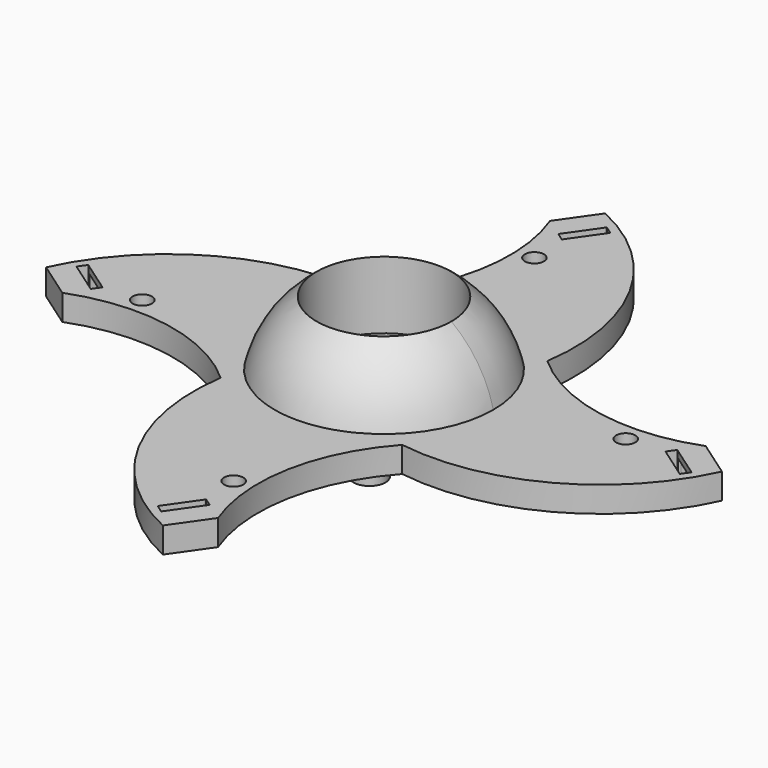
from build123d import *

# Parameters (mm, degrees)
F1_ANGLE  = 180
F2_R      = 11
F3_DEPTH  = 3.5
F4_R      = 10.5
F5_DEPTH  = 17
F7_DEPTH  = 4
F8_R      = 18.641205443
F8_R_2    = 11
F9_DEPTH  = 4
F10_R     = 10
F11_DEPTH = 2
F13_DEPTH = 3
F15_DEPTH = 25
F17_DEPTH = 3
F18_R     = 2.5
F19_DEPTH = 2.5
F20_R     = 1.5
F21_DEPTH = 25


with BuildPart() as f1:
    # F0 (on Top) → F1 (revolve)
    with BuildSketch(Plane.XY):
        with BuildLine():
            ThreePointArc((0, -17.5), (12.3743686708, -12.3743686708), (17.5, 0))
            ThreePointArc((17.5, 0), (12.3743686708, 12.3743686708), (0, 17.5))
            Line((0, 17.5), (0, -17.5))
        make_face()
    revolve(axis=Axis((0, 0, 0), (0, -1, 0)), revolution_arc=F1_ANGLE)

    # F2 (on face) → F3 (cut)
    with BuildSketch(Plane(origin=(0, 0, 0), x_dir=(1, 0, 0), z_dir=(0, 0, -1))):
        Circle(F2_R)
    extrude(amount=-F3_DEPTH, mode=Mode.SUBTRACT)

    # F4 (on face) → F5 (cut)
    with BuildSketch(Plane(origin=(0, 0, 3.5), x_dir=(1, 0, 0), z_dir=(0, 0, -1))):
        Circle(F4_R)
    extrude(amount=-F5_DEPTH, mode=Mode.SUBTRACT)



with BuildPart() as f7:
    # F6 (on face) → F7 (new body)
    with BuildSketch(Plane(origin=(0, 0, 0), x_dir=(1, 0, 0), z_dir=(0, 0, -1))):
        with BuildLine():
            ThreePointArc((-12.3743686708, -12.3743686708), (-17.5, 0), (-12.3743686708, 12.3743686708))
            Line((-12.3743686708, 12.3743686708), (-14.1421356237, 14.1421356237))
            ThreePointArc((-14.1421356237, 14.1421356237), (-27.8923182516, 7.317919876), (-43.1821195756, 8.6815247843))
            Line((-43.1821195756, 8.6815247843), (-48.919726111, 4.6715533074))
            ThreePointArc((-48.919726111, 4.6715533074), (-34.6649635656, -10.5286316429), (-14.1421356237, -14.1421356237))
            Line((-14.1421356237, -14.1421356237), (-12.3743686708, -12.3743686708))
        make_face()
        with BuildLine():
            Line((-14.1421356237, 14.1421356237), (-12.3743686708, 12.3743686708))
            ThreePointArc((-12.3743686708, 12.3743686708), (0, 17.5), (12.3743686708, 12.3743686708))
            Line((12.3743686708, 12.3743686708), (14.1421356237, 14.1421356237))
            ThreePointArc((14.1421356237, 14.1421356237), (7.317919876, 27.8923182516), (8.6815247843, 43.1821195756))
            Line((8.6815247843, 43.1821195756), (4.6715533074, 48.919726111))
            ThreePointArc((4.6715533074, 48.919726111), (-10.5286316429, 34.6649635656), (-14.1421356237, 14.1421356237))
        make_face()
        with BuildLine():
            Line((14.1421356237, 14.1421356237), (12.3743686708, 12.3743686708))
            ThreePointArc((12.3743686708, 12.3743686708), (17.5, 0), (12.3743686708, -12.3743686708))
            Line((12.3743686708, -12.3743686708), (14.1421356237, -14.1421356237))
            ThreePointArc((14.1421356237, -14.1421356237), (27.8923182516, -7.317919876), (43.1821195756, -8.6815247843))
            Line((43.1821195756, -8.6815247843), (48.919726111, -4.6715533074))
            ThreePointArc((48.919726111, -4.6715533074), (34.6649635656, 10.5286316429), (14.1421356237, 14.1421356237))
        make_face()
        with BuildLine():
            ThreePointArc((12.3743686708, -12.3743686708), (0, -17.5), (-12.3743686708, -12.3743686708))
            Line((-12.3743686708, -12.3743686708), (-14.1421356237, -14.1421356237))
            ThreePointArc((-14.1421356237, -14.1421356237), (-7.317919876, -27.8923182516), (-8.6815247843, -43.1821195756))
            Line((-8.6815247843, -43.1821195756), (-4.6715533074, -48.919726111))
            ThreePointArc((-4.6715533074, -48.919726111), (10.5286316429, -34.6649635656), (14.1421356237, -14.1421356237))
            Line((14.1421356237, -14.1421356237), (12.3743686708, -12.3743686708))
        make_face()
    extrude(amount=-F7_DEPTH)


with BuildPart() as f1_1:
    add(f1.part)

    add(f7.part)  # F9 merges F7
    # F8 (on face) → F9 (join, through all)
    with BuildSketch(Plane(origin=(0, 0, 0), x_dir=(1, 0, 0), z_dir=(0, 0, -1))):
        Circle(F8_R)
        Circle(F8_R_2, mode=Mode.SUBTRACT)
    extrude(amount=-F9_DEPTH)

    # F10 (on face) → F11 (cut)
    with BuildSketch(Plane(origin=(0, 0, 0), x_dir=(1, 0, 0), z_dir=(0, 0, -1))):
        with Locations((-3.7499996834, 22.8846166283)):
            Circle(F10_R)
        with Locations((-22.8846166283, -3.7499996834)):
            Circle(F10_R)
        with Locations((3.7499996834, -22.8846166283)):
            Circle(F10_R)
        with Locations((22.8846166283, 3.7499996834)):
            Circle(F10_R)
    extrude(amount=-F11_DEPTH, mode=Mode.SUBTRACT)

    # F12 (on face) → F13 (cut)
    with BuildSketch(Plane(origin=(0, 0, 0), x_dir=(1, 0, 0), z_dir=(0, 0, -1))):
        Polygon((5.9440483259, 41.5129213729), (8.2390909401, 43.1169099636), (4.9165431449, 47.8709268072), (2.6215005308, 46.2669382165), (2.2936373002, 46.0377969892), (5.6161850953, 41.2837801456), align=None)
        Polygon((-46.0377969892, 2.2936373002), (-41.2837801456, 5.6161850953), (-41.5129213729, 5.9440483259), (-43.1169099636, 8.2390909401), (-47.8709268072, 4.9165431449), (-46.2669382165, 2.6215005308), align=None)
        Polygon((-2.2936373002, -46.0377969892), (-5.6161850953, -41.2837801456), (-5.9440483259, -41.5129213729), (-8.2390909401, -43.1169099636), (-4.9165431449, -47.8709268072), (-2.6215005308, -46.2669382165), align=None)
        Polygon((46.0377969892, -2.2936373002), (41.2837801456, -5.6161850953), (41.5129213729, -5.9440483259), (43.1169099636, -8.2390909401), (47.8709268072, -4.9165431449), (46.2669382165, -2.6215005308), align=None)
    extrude(amount=-F13_DEPTH, mode=Mode.SUBTRACT)

    # F14 (on face) → F15 (cut)
    with BuildSketch(Plane(origin=(0, 0, 0), x_dir=(1, 0, 0), z_dir=(0, 0, -1))):
        Polygon((5.7307557089, 41.1198485303), (2.2936373002, 46.0377969892), (2.20770934, 46.1607457007), (0.9782222253, 45.3014660985), (4.415340634, 40.3835176396), (4.5012685942, 40.2605689282), align=None)
        Polygon((-46.1607457007, 2.20770934), (-45.3014660985, 0.9782222253), (-40.3835176396, 4.415340634), (-40.2605689282, 4.5012685942), (-41.1198485303, 5.7307557089), (-46.0377969892, 2.2936373002), align=None)
        Polygon((-2.20770934, -46.1607457007), (-0.9782222253, -45.3014660985), (-4.415340634, -40.3835176396), (-4.5012685942, -40.2605689282), (-5.7307557089, -41.1198485303), (-2.2936373002, -46.0377969892), align=None)
        Polygon((46.1607457007, -2.20770934), (45.3014660985, -0.9782222253), (40.3835176396, -4.415340634), (40.2605689282, -4.5012685942), (41.1198485303, -5.7307557089), (46.0377969892, -2.2936373002), align=None)
    extrude(amount=-F15_DEPTH, mode=Mode.SUBTRACT)

    # F16 (on face) → F17 (cut)
    with BuildSketch(Plane(origin=(0, 0, 0), x_dir=(1, 0, 0), z_dir=(0, 0, -1))):
        with BuildLine():
            Line((4.1809628018, 40.7188735865), (1.342054472, 44.7808822767))
            ThreePointArc((1.342054472, 44.7808822767), (-5.3985401919, 39.5803016206), (-8.5350042844, 31.6654896468))
            ThreePointArc((-8.5350042844, 31.6654896468), (-4.3224338027, 32.8682191434), (0, 32.1548648652))
            ThreePointArc((0, 32.1548648652), (1.0537931887, 36.9429820748), (4.1809628018, 40.7188735865))
        make_face()
        with BuildLine():
            Line((-40.7188735865, 4.1809628018), (-44.7808822767, 1.342054472))
            ThreePointArc((-44.7808822767, 1.342054472), (-39.5803016206, -5.3985401919), (-31.6654896468, -8.5350042844))
            ThreePointArc((-31.6654896468, -8.5350042844), (-32.8682191434, -4.3224338027), (-32.1548648653, 0))
            ThreePointArc((-32.1548648653, 0), (-36.9429820748, 1.0537931887), (-40.7188735865, 4.1809628018))
        make_face()
        with BuildLine():
            Line((-4.1809628018, -40.7188735865), (-1.342054472, -44.7808822767))
            ThreePointArc((-1.342054472, -44.7808822767), (5.3985401919, -39.5803016206), (8.5350042844, -31.6654896468))
            ThreePointArc((8.5350042844, -31.6654896468), (4.3224338027, -32.8682191434), (0, -32.1548648653))
            ThreePointArc((0, -32.1548648653), (-1.0537931887, -36.9429820748), (-4.1809628018, -40.7188735865))
        make_face()
        with BuildLine():
            Line((40.7188735865, -4.1809628018), (44.7808822767, -1.342054472))
            ThreePointArc((44.7808822767, -1.342054472), (39.5803016206, 5.3985401919), (31.6654896468, 8.5350042844))
            ThreePointArc((31.6654896468, 8.5350042844), (32.8682191434, 4.3224338027), (32.1548648652, 0))
            ThreePointArc((32.1548648652, 0), (36.9429820748, -1.0537931887), (40.7188735865, -4.1809628018))
        make_face()
    extrude(amount=-F17_DEPTH, mode=Mode.SUBTRACT)

    # F18 (on face) → F19 (join)
    with BuildSketch(Plane(origin=(0, 0, 0), x_dir=(1, 0, 0), z_dir=(0, 0, -1))):
        with Locations((8.4528671578, 13.4043414146)):
            Circle(F18_R)
        with Locations((-13.4043414146, 8.4528671578)):
            Circle(F18_R)
        with Locations((-8.4528671578, -13.4043414146)):
            Circle(F18_R)
        with Locations((13.4043414146, -8.4528671578)):
            Circle(F18_R)
    extrude(amount=F19_DEPTH)

    # F20 (on face) → F21 (cut)
    with BuildSketch(Plane(origin=(0, 0, 0), x_dir=(1, 0, 0), z_dir=(0, 0, -1))):
        with Locations((4.0849614888, 34.4008803368)):
            Circle(F20_R)
        with Locations((-34.4008803368, 4.0849614888)):
            Circle(F20_R)
        with Locations((-4.0849614888, -34.4008803368)):
            Circle(F20_R)
        with Locations((34.4008803368, -4.0849614888)):
            Circle(F20_R)
    extrude(amount=-F21_DEPTH, mode=Mode.SUBTRACT)


solid = f1_1.part
